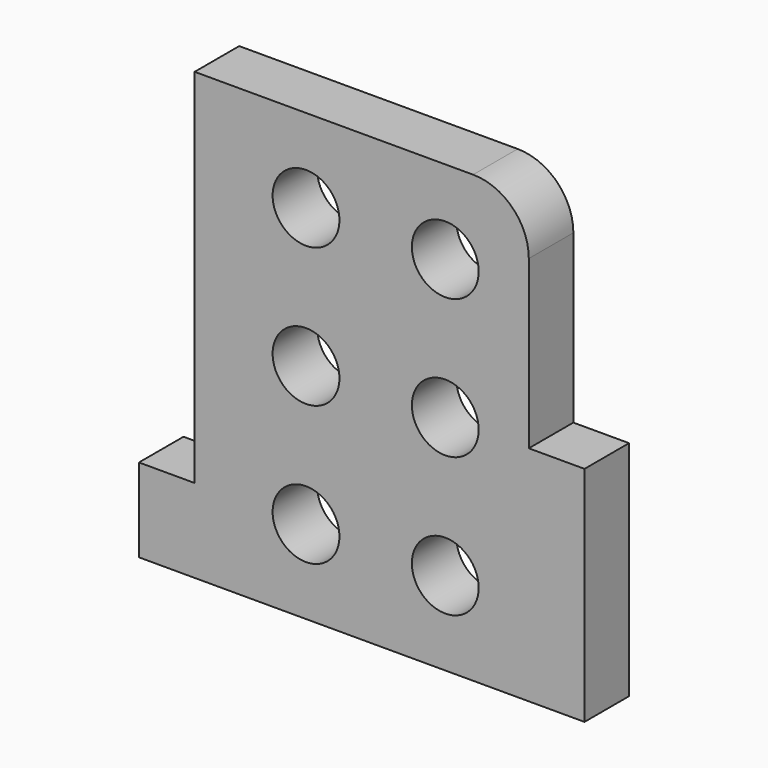
from build123d import *

# Parameters (mm, degrees)
F0_R     = 6
F1_DEPTH = 10


with BuildPart() as f1:
    # F0 (on Front) → F1 (new body)
    with BuildSketch(Plane.XZ):
        with BuildLine():
            Line((0, 0), (80, 0))
            Line((80, 0), (80, 40))
            Line((80, 40), (70, 40))
            Line((70, 40), (70, 70))
            ThreePointArc((70, 70), (67.071068, 77.071068), (60, 80))
            Line((60, 80), (10, 80))
            Line((10, 80), (10, 15))
            Line((10, 15), (0, 15))
            Line((0, 15), (0, 0))
        make_face()
        with Locations((30, 15)):
            Circle(F0_R, mode=Mode.SUBTRACT)
        with Locations((55, 15)):
            Circle(F0_R, mode=Mode.SUBTRACT)
        with Locations((30, 40)):
            Circle(F0_R, mode=Mode.SUBTRACT)
        with Locations((30, 65)):
            Circle(F0_R, mode=Mode.SUBTRACT)
        with Locations((55, 40)):
            Circle(F0_R, mode=Mode.SUBTRACT)
        with Locations((55, 65)):
            Circle(F0_R, mode=Mode.SUBTRACT)
    extrude(amount=F1_DEPTH)


solid = f1.part
